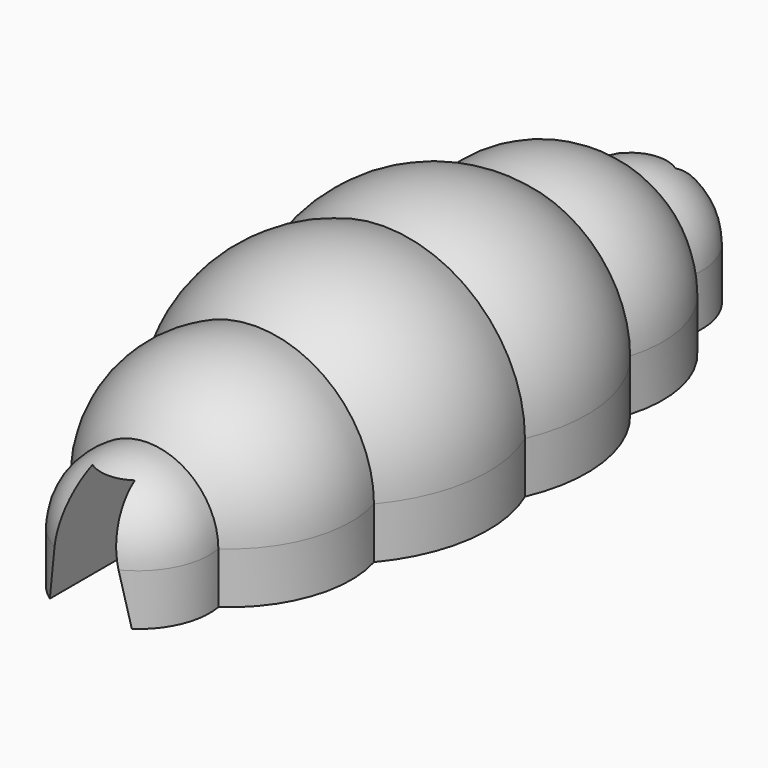
from build123d import *

# Parameters (mm, degrees)
F1_ANGLE = 180
F3_DEPTH = 0.5
F5_DEPTH = 1.1
F5_TAPER = 10


with BuildPart() as f1:
    # F0 (on Top) → F1 (revolve)
    with BuildSketch(Plane.XY):
        with BuildLine():
            ThreePointArc((0.5062173446, 0.212), (0.9095469597, 0.517232903), (1.1512791959, 0.9615384615))
            ThreePointArc((1.1512791959, 0.9615384615), (0.6354889093, 1.358732441), (0, 1.5))
            Line((0, 1.5), (0, 0.3))
            ThreePointArc((0, 0.3), (0.2569046516, 0.2778362562), (0.5062173446, 0.212))
        make_face()
        with BuildLine():
            Line((0, -1.3), (0, -1.5))
            ThreePointArc((0, -1.5), (0.2569046516, -1.4778362562), (0.5062173446, -1.412))
            ThreePointArc((0.5062173446, -1.412), (0.2592296279, -1.3283345187), (0, -1.3))
        make_face()
        with BuildLine():
            ThreePointArc((0.5062173446, -1.412), (0.2569046516, -1.4778362562), (0, -1.5))
            Line((0, -1.5), (0, -2.7))
            ThreePointArc((0, -2.7), (0.6354889093, -2.558732441), (1.1512791959, -2.1615384615))
            ThreePointArc((1.1512791959, -2.1615384615), (0.9095469597, -1.717232903), (0.5062173446, -1.412))
        make_face()
        with BuildLine():
            ThreePointArc((0, 1.5), (0.6354889093, 1.358732441), (1.1512791959, 0.9615384615))
            ThreePointArc((1.1512791959, 0.9615384615), (1.1328359299, 1.6958317266), (0.6899514895, 2.2818181818))
            ThreePointArc((0.6899514895, 2.2818181818), (0.4512608599, 1.864870449), (0, 1.7))
            Line((0, 1.7), (0, 1.5))
        make_face()
        with BuildLine():
            ThreePointArc((0.5062173446, 0.212), (1.0243861064, -0.1042659515), (1.3747727085, -0.6))
            ThreePointArc((1.3747727085, -0.6), (1.4848687308, 0.2125202398), (1.1512791959, 0.9615384615))
            ThreePointArc((1.1512791959, 0.9615384615), (0.9095469597, 0.517232903), (0.5062173446, 0.212))
        make_face()
        with BuildLine():
            ThreePointArc((0, -1.3), (0.2592296279, -1.3283345187), (0.5062173446, -1.412))
            ThreePointArc((0.5062173446, -1.412), (1.0243861064, -1.0957340485), (1.3747727085, -0.6))
            ThreePointArc((1.3747727085, -0.6), (1.0243861064, -0.1042659515), (0.5062173446, 0.212))
            ThreePointArc((0.5062173446, 0.212), (0.2592296279, 0.1283345187), (0, 0.1))
            Line((0, 0.1), (0, -1.3))
        make_face()
        with BuildLine():
            ThreePointArc((1.3747727085, -0.6), (1.0243861064, -1.0957340485), (0.5062173446, -1.412))
            ThreePointArc((0.5062173446, -1.412), (0.9095469597, -1.717232903), (1.1512791959, -2.1615384615))
            ThreePointArc((1.1512791959, -2.1615384615), (1.4848687308, -1.4125202398), (1.3747727085, -0.6))
        make_face()
        with BuildLine():
            ThreePointArc((1.1512791959, -2.1615384615), (0.6354889093, -2.558732441), (0, -2.7))
            Line((0, -2.7), (0, -2.9))
            ThreePointArc((0, -2.9), (0.4512608599, -3.064870449), (0.6899514895, -3.4818181818))
            ThreePointArc((0.6899514895, -3.4818181818), (1.1328359299, -2.8958317266), (1.1512791959, -2.1615384615))
        make_face()
        with BuildLine():
            Line((0, 0.3), (0, 0.1))
            ThreePointArc((0, 0.1), (0.2592296279, 0.1283345187), (0.5062173446, 0.212))
            ThreePointArc((0.5062173446, 0.212), (0.2569046516, 0.2778362562), (0, 0.3))
        make_face()
        with BuildLine():
            ThreePointArc((0, 2.5), (0.3618136135, 2.4441551071), (0.6899514895, 2.2818181818))
            ThreePointArc((0.6899514895, 2.2818181818), (0.535129551, 2.8512608599), (0, 3.1))
            Line((0, 3.1), (0, 2.5))
        make_face()
        with BuildLine():
            ThreePointArc((0, 1.7), (0.4512608599, 1.864870449), (0.6899514895, 2.2818181818))
            ThreePointArc((0.6899514895, 2.2818181818), (0.3618136135, 2.4441551071), (0, 2.5))
            Line((0, 2.5), (0, 1.7))
        make_face()
        with BuildLine():
            ThreePointArc((0, -4.3), (0.535129551, -4.0512608599), (0.6899514895, -3.4818181818))
            ThreePointArc((0.6899514895, -3.4818181818), (0.3618136135, -3.6441551071), (0, -3.7))
            Line((0, -3.7), (0, -4.3))
        make_face()
        with BuildLine():
            ThreePointArc((0.6899514895, -3.4818181818), (0.4512608599, -3.064870449), (0, -2.9))
            Line((0, -2.9), (0, -3.7))
            ThreePointArc((0, -3.7), (0.3618136135, -3.6441551071), (0.6899514895, -3.4818181818))
        make_face()
    revolve(axis=Axis((0, -0.6, 0), (0, -1, 0)), revolution_arc=F1_ANGLE)

    # F2 (on face) → F3 (join)
    with BuildSketch(Plane(origin=(0, 0, 0), x_dir=(1, 0, 0), z_dir=(0, 0, -1))):
        with BuildLine():
            ThreePointArc((-1.3747727085, 0.6), (-1.4848687308, -0.2125202398), (-1.1512791959, -0.9615384615))
            ThreePointArc((-1.1512791959, -0.9615384615), (-1.1328359299, -1.6958317266), (-0.6899514895, -2.2818181818))
            ThreePointArc((-0.6899514895, -2.2818181818), (-0.535129551, -2.8512608599), (0, -3.1))
            ThreePointArc((0, -3.1), (0.535129551, -2.8512608599), (0.6899514895, -2.2818181818))
            ThreePointArc((0.6899514895, -2.2818181818), (1.1328359299, -1.6958317266), (1.1512791959, -0.9615384615))
            ThreePointArc((1.1512791959, -0.9615384615), (1.4848687308, -0.2125202398), (1.3747727085, 0.6))
            ThreePointArc((1.3747727085, 0.6), (1.4848687308, 1.4125202398), (1.1512791959, 2.1615384615))
            ThreePointArc((1.1512791959, 2.1615384615), (1.1328359299, 2.8958317266), (0.6899514895, 3.4818181818))
            ThreePointArc((0.6899514895, 3.4818181818), (0.535129551, 4.0512608599), (0, 4.3))
            ThreePointArc((0, 4.3), (-0.535129551, 4.0512608599), (-0.6899514895, 3.4818181818))
            ThreePointArc((-0.6899514895, 3.4818181818), (-1.1328359299, 2.8958317266), (-1.1512791959, 2.1615384615))
            ThreePointArc((-1.1512791959, 2.1615384615), (-1.4848687308, 1.4125202398), (-1.3747727085, 0.6))
        make_face()
    extrude(amount=F3_DEPTH)

    # F4 (on face) → F5 (cut)
    with BuildSketch(Plane(origin=(0, 0, -0.5), x_dir=(1, 0, 0), z_dir=(0, 0, -1))):
        with BuildLine():
            ThreePointArc((0.4, 4.1744562647), (0, 4.3), (-0.4, 4.1744562647))
            Line((-0.4, 4.1744562647), (-0.4, -2.9744562647))
            ThreePointArc((-0.4, -2.9744562647), (0, -3.1), (0.4, -2.9744562647))
            Line((0.4, -2.9744562647), (0.4, 4.1744562647))
        make_face()
        with BuildLine():
            ThreePointArc((0.4, -2.9744562647), (0, -3.1), (-0.4, -2.9744562647))
            Line((-0.4, -2.9744562647), (-0.4, -6.0718938156))
            Line((-0.4, -6.0718938156), (0.4, -6.0718938156))
            Line((0.4, -6.0718938156), (0.4, -2.9744562647))
        make_face()
        with BuildLine():
            Line((0.4, 6.0718938156), (-0.4, 6.0718938156))
            Line((-0.4, 6.0718938156), (-0.4, 4.1744562647))
            ThreePointArc((-0.4, 4.1744562647), (0, 4.3), (0.4, 4.1744562647))
            Line((0.4, 4.1744562647), (0.4, 6.0718938156))
        make_face()
    extrude(amount=-F5_DEPTH, taper=F5_TAPER, mode=Mode.SUBTRACT)


solid = f1.part
